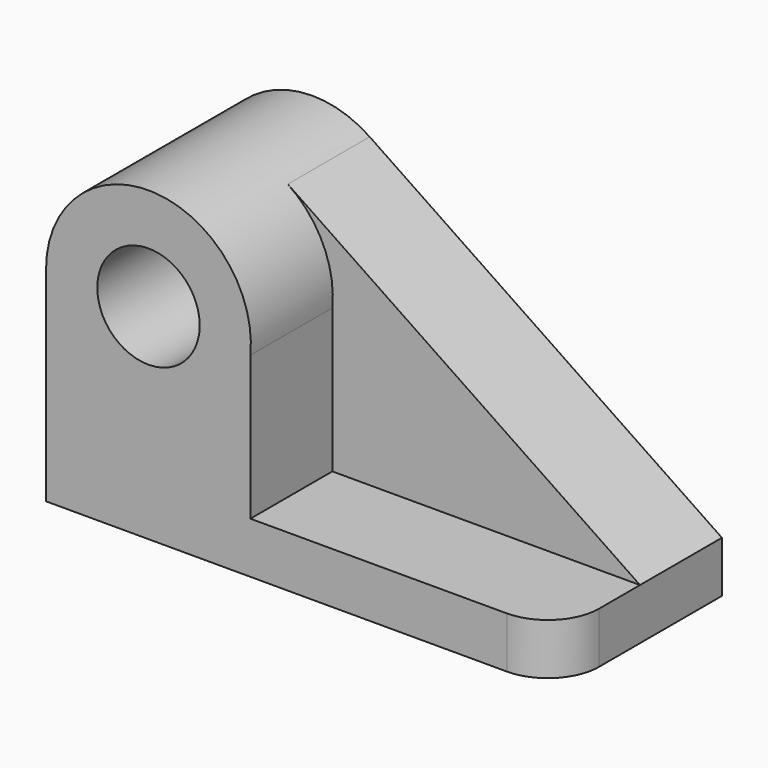
from build123d import *

# Parameters (mm, degrees)
F0_R     = 12.7
F1_DEPTH = 25.4
F3_DEPTH = 25.4
F4_R     = 12.7


with BuildPart() as f1:
    # F0 (on Front) → F1 (new body)
    with BuildSketch(Plane.XZ):
        with BuildLine():
            Line((58.1624929965, -35.6950488269), (-29.1996338754, 23.4392795148))
            ThreePointArc((-29.1996338754, 23.4392795148), (-55.3437663352, 24.841550486), (-68.8375070035, 2.4049511731))
            Line((-68.8375070035, 2.4049511731), (-68.8375070035, -48.3950488269))
            Line((-68.8375070035, -48.3950488269), (58.1624929965, -48.3950488269))
            Line((58.1624929965, -48.3950488269), (58.1624929965, -35.6950488269))
        make_face()
        with Locations((-43.4375070035, 2.4049511731)):
            Circle(F0_R, mode=Mode.SUBTRACT)
    extrude(amount=F1_DEPTH)

    # F2 (on face) → F3 (join)
    with BuildSketch(Plane.XZ.offset(25.4)):
        with BuildLine():
            Line((-18.151617463, -35.6950488269), (-18.151617463, 0))
            ThreePointArc((-18.151617463, 0), (-20.4618261667, 13.2344520888), (-29.1996338754, 23.4392795148))
            ThreePointArc((-29.1996338754, 23.4392795148), (-55.3437663352, 24.841550486), (-68.8375070035, 2.4049511731))
            Line((-68.8375070035, 2.4049511731), (-68.8375070035, -35.6950488269))
            Line((-68.8375070035, -35.6950488269), (-68.8375070035, -48.3950488269))
            Line((-68.8375070035, -48.3950488269), (58.1624929965, -48.3950488269))
            Line((58.1624929965, -48.3950488269), (58.1624929965, -35.6950488269))
            Line((58.1624929965, -35.6950488269), (-18.151617463, -35.6950488269))
        make_face()
        with BuildLine():
            ThreePointArc((-30.9672941002, 0), (-56.0799297119, 3.6129031852), (-30.7375070035, 2.4049511731))
            ThreePointArc((-30.7375070035, 2.4049511731), (-30.7950842952, 1.1969991609), (-30.9672941002, 0))
        make_face(mode=Mode.SUBTRACT)
    extrude(amount=F3_DEPTH)

    # F4
    f4_edges = [f1.edges().sort_by_distance(p)[0] for p in [
        (58.162493, -50.8, -42.045049),
    ]]
    fillet(f4_edges, radius=F4_R)


solid = f1.part
